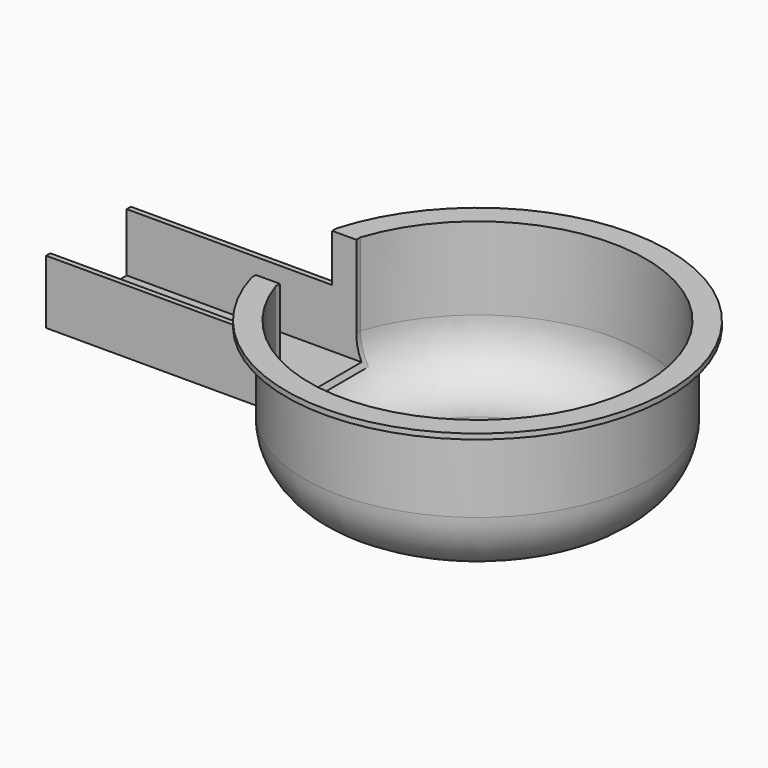
from build123d import *

# Parameters (mm, degrees)
F2_DEPTH = 40
F3_DEPTH = 8.5
F4_W     = 27
F4_H     = 30
F6_DEPTH = 110
F7_DEPTH = 30
F8_W     = 58.1251506026
F8_H     = 1.5
F9_DEPTH = 13.5


with BuildPart() as f2:
    # F0 (on Top) → F2 (new body)
    with BuildSketch(Plane.XY):
        Polygon((0, -15), (0, 0), (0, 15), (-110, 15), (-110, -15), align=None)
    extrude(amount=F2_DEPTH)

    # F0 (on Top) → F3 (cut)
    with BuildSketch(Plane.XY):
        Polygon((0, -15), (0, 0), (0, 15), (-110, 15), (-110, -15), align=None)
    extrude(amount=F3_DEPTH, mode=Mode.SUBTRACT)

    # F1 (on Front) → F5 (revolve)
    with BuildSketch(Plane.XZ):
        with BuildLine():
            Line((30.8, 0), (0, 0))
            Line((0, 0), (0, -1.5))
            Line((0, -1.5), (31, -1.5))
            ThreePointArc((31, -1.5), (43.7279220614, 3.7720779386), (49, 16.5))
            Line((49, 16.5), (49, 38.5))
            Line((49, 38.5), (54, 38.5))
            Line((54, 38.5), (54, 40))
            Line((54, 40), (47.5, 40))
            Line((47.5, 40), (47.5, 16.7))
            ThreePointArc((47.5, 16.7), (42.6086832458, 4.8913167542), (30.8, 0))
        make_face()
    revolve(axis=Axis((0, 0, -0.75), (0, 0, 1)))

    # F4 (on face) → F6 (cut)
    with BuildSketch(Plane(origin=(-110, 0, 0), x_dir=(0, -1, 0), z_dir=(-1, 0, 0))):
        with Locations((0, 25)):
            Rectangle(F4_W, F4_H)
    extrude(amount=-F6_DEPTH, mode=Mode.SUBTRACT)

    # F7 (cut): a face of the model
    f7_faces = [f2.faces().sort_by_distance(p)[0] for p in [
        (-22.4413063846, -15, 24.3086468334),
    ]]
    extrude(f7_faces, amount=-F7_DEPTH, mode=Mode.SUBTRACT)

    # F8 (on face) → F9 (cut)
    with BuildSketch(Plane.XY.offset(40)):
        with Locations((-80.9374246987, -14.25)):
            Rectangle(F8_W, F8_H)
        with Locations((-80.9374246987, 14.25)):
            Rectangle(F8_W, F8_H)
    extrude(amount=-F9_DEPTH, mode=Mode.SUBTRACT)


solid = f2.part
